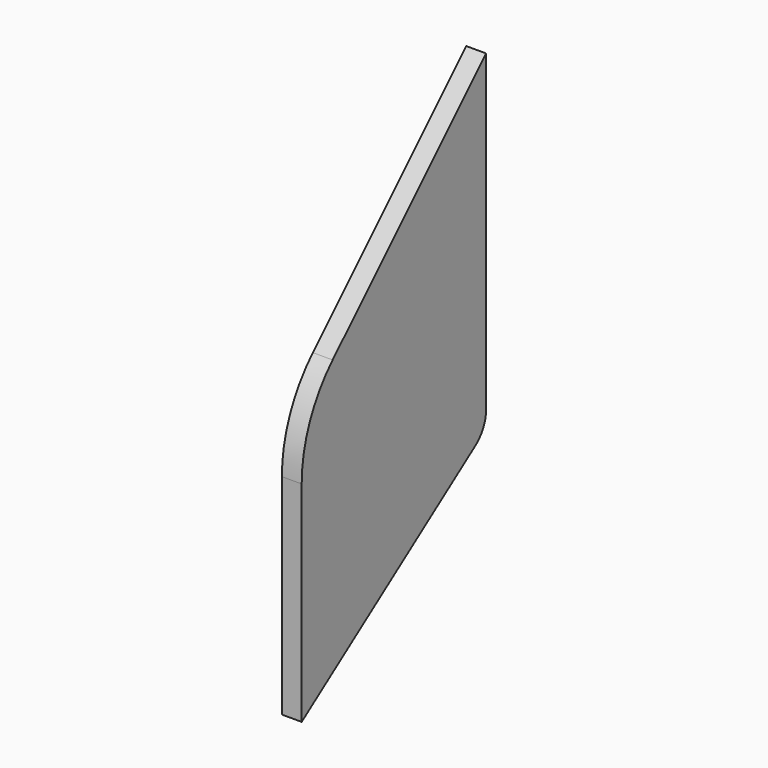
from build123d import *

# Parameters (mm, degrees)
PAD006_DEPTH            = 1.5
FILLET006_R             = 20
FILLET007_R             = 5
BODY007_PLACEMENT_ANGLE = 180


with BuildPart() as part:
    # Sketch011 → Pad006 (new body, symmetric)
    with BuildSketch(Plane.YZ):
        Polygon((27, -2.5), (61.9, -27.4), (61.9, 12.6), (27, 47.5), align=None)
    extrude(amount=PAD006_DEPTH, both=True)

    # Fillet006
    fillet006_edges = [part.edges().sort_by_distance(p)[0] for p in [
        (0, 61.9, 12.6),
    ]]
    fillet(fillet006_edges, radius=FILLET006_R)

    # Fillet007
    fillet007_edges = [part.edges().sort_by_distance(p)[0] for p in [
        (0, 27, -2.5),
    ]]
    fillet(fillet007_edges, radius=FILLET007_R)


with BuildPart() as part_1:
    # Body007 placement: moved
    add(part.part.rotate(Axis((0, 0, 0), (0, 0, 1)), BODY007_PLACEMENT_ANGLE))


solid = part_1.part
